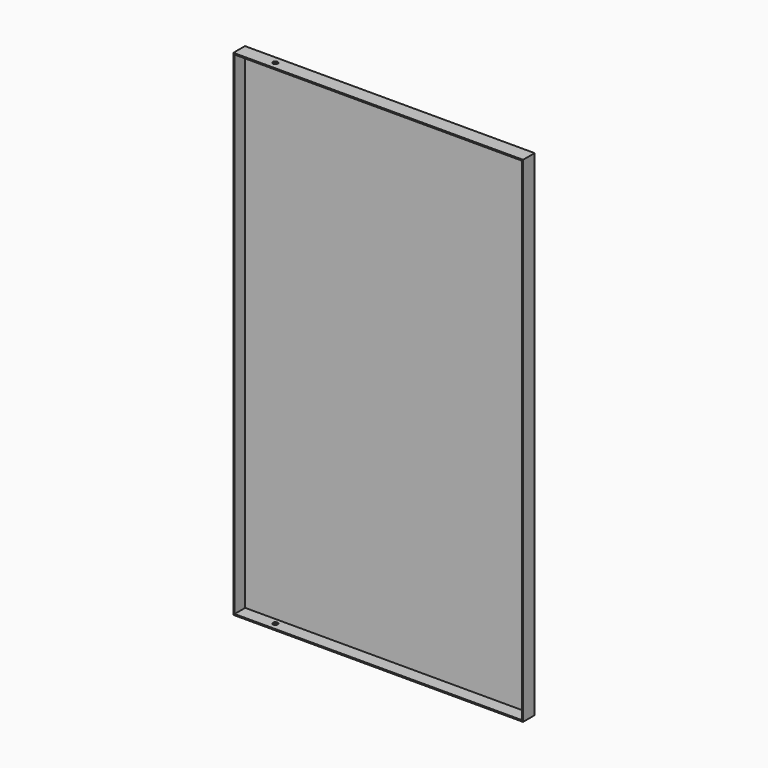
from build123d import *

# Parameters (mm, degrees)
F0_W     = 762
F0_H     = 1301.75
F1_DEPTH = 38.1
F2_T     = -3.175
F3_R     = 6.4135
F4_DEPTH = 1301.751


with BuildPart() as f1:
    # F0 (on Front) → F1 (new body)
    with BuildSketch(Plane.XZ):
        Rectangle(F0_W, F0_H)
    extrude(amount=F1_DEPTH)

    # F2
    f2_openings = [f1.faces().sort_by_distance(p)[0] for p in [
        (0, -38.1, 0),
    ]]
    offset(amount=F2_T, openings=f2_openings)

    # F3 (on face) → F4 (cut, through all)
    with BuildSketch(Plane.XY.offset(650.875)):
        with Locations((-285.75, -19.05)):
            Circle(F3_R)
    extrude(amount=-F4_DEPTH, mode=Mode.SUBTRACT)


solid = f1.part
